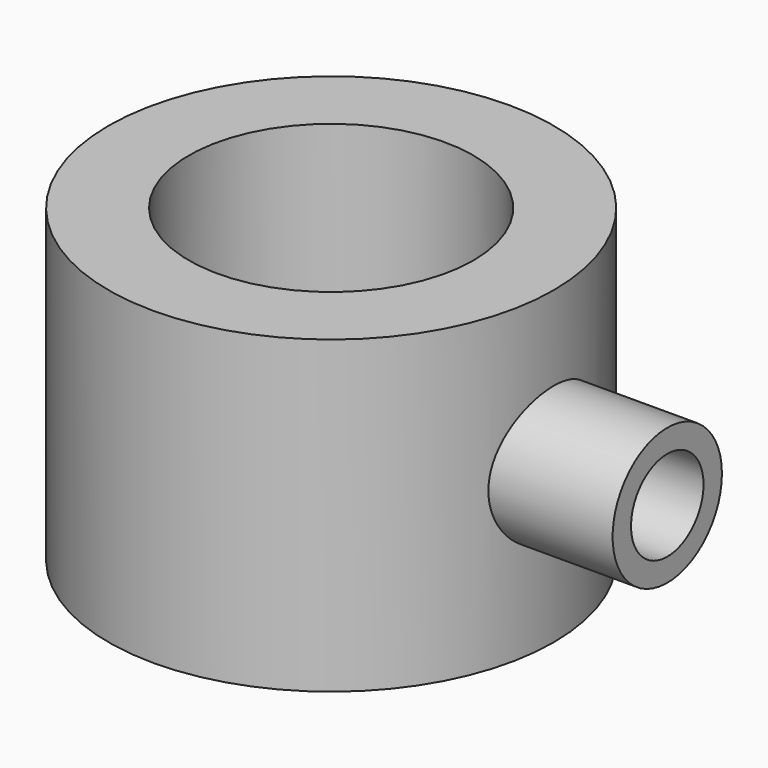
from build123d import *

# Parameters (mm, degrees)
F0_W     = 18.651318
F0_H     = 71.940791
F2_R     = 15.850572
F3_DEPTH = 78
F4_R     = 10.510911
F5_DEPTH = 80


with BuildPart() as f1:
    # F0 (on Front) → F1 (revolve)
    with BuildSketch(Plane.XZ):
        with Locations((42.335527, -0.592103)):
            Rectangle(F0_W, F0_H)
    revolve(axis=Axis((0, 0, 7.253291), (0, 0, -1)))

    # F2 (on Right) → F3 (join)
    with BuildSketch(Plane.YZ):
        Circle(F2_R)
    extrude(amount=F3_DEPTH)

    # F4 (on Right) → F5 (cut)
    with BuildSketch(Plane.YZ):
        Circle(F4_R)
    extrude(amount=F5_DEPTH, mode=Mode.SUBTRACT)


solid = f1.part
